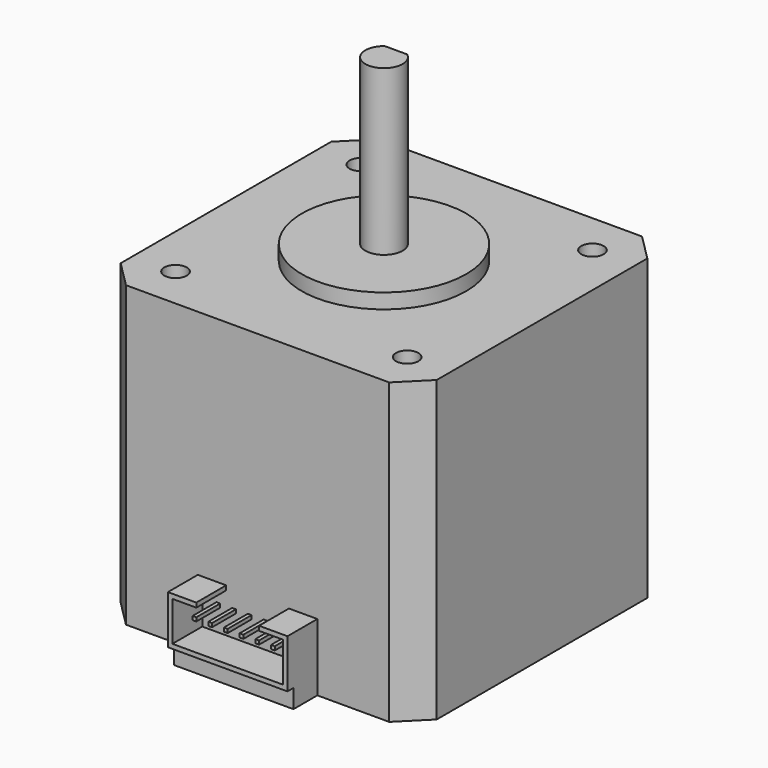
from build123d import *

# Parameters (mm, degrees)
PAD009_DEPTH   = 40
SKETCH017_R    = 1.5
HOLE002_DEPTH  = 4.5
HOLE002_TIPS_R = 1.5
SKETCH018_R    = 1.5
HOLE003_DEPTH  = 4.5
HOLE003_TIPS_R = 1.5
SKETCH019_R    = 11
PAD010_DEPTH   = 2
PAD011_DEPTH   = 22
SKETCH021_R    = 2.5
PAD012_DEPTH   = 3
SKETCH022_W    = 16
SKETCH022_H    = 4
PAD013_DEPTH   = 2.5
PAD014_DEPTH   = 5
SKETCH024_W    = 0.5
SKETCH024_H    = 0.5
PAD015_DEPTH   = 4


with BuildPart() as part:
    # Sketch016 → Pad009 (new body)
    with BuildSketch(Plane.XY):
        Polygon((-17.614466, 21.15), (17.614466, 21.15), (21.15, 17.614466), (21.15, -17.614466), (17.614466, -21.15), (-17.614466, -21.15), (-21.15, -17.614466), (-21.15, 17.614466), align=None)
    extrude(amount=PAD009_DEPTH)

    # Sketch017 (on Face10 of Pad009) → Hole002 (cut)
    with BuildSketch(Plane.XY.offset(40)):
        with Locations((15.5, 15.5)):
            Circle(SKETCH017_R)
        with Locations((-15.5, 15.5)):
            Circle(SKETCH017_R)
        with Locations((-15.5, -15.5)):
            Circle(SKETCH017_R)
        with Locations((15.5, -15.5)):
            Circle(SKETCH017_R)
    extrude(amount=-HOLE002_DEPTH, mode=Mode.SUBTRACT)

    # Hole002 tips → Hole002 tip 1 section 0
    with BuildSketch(Plane.XY.offset(35.5), mode=Mode.PRIVATE) as hole002_tip_1_s0:
        with Locations((15.5, 15.5)):
            Circle(HOLE002_TIPS_R)
    loft([hole002_tip_1_s0.sketch, Vertex(15.5, 15.5, 34.598709)], mode=Mode.SUBTRACT)

    # Hole002 tips → Hole002 tip 2 section 0
    with BuildSketch(Plane.XY.offset(35.5), mode=Mode.PRIVATE) as hole002_tip_2_s0:
        with Locations((-15.5, 15.5)):
            Circle(HOLE002_TIPS_R)
    loft([hole002_tip_2_s0.sketch, Vertex(-15.5, 15.5, 34.598709)], mode=Mode.SUBTRACT)

    # Hole002 tips → Hole002 tip 3 section 0
    with BuildSketch(Plane.XY.offset(35.5), mode=Mode.PRIVATE) as hole002_tip_3_s0:
        with Locations((-15.5, -15.5)):
            Circle(HOLE002_TIPS_R)
    loft([hole002_tip_3_s0.sketch, Vertex(-15.5, -15.5, 34.598709)], mode=Mode.SUBTRACT)

    # Hole002 tips → Hole002 tip 4 section 0
    with BuildSketch(Plane.XY.offset(35.5), mode=Mode.PRIVATE) as hole002_tip_4_s0:
        with Locations((15.5, -15.5)):
            Circle(HOLE002_TIPS_R)
    loft([hole002_tip_4_s0.sketch, Vertex(15.5, -15.5, 34.598709)], mode=Mode.SUBTRACT)

    # Sketch018 → Hole003 (cut)
    with BuildSketch(Plane.XY):
        with Locations((-15.5, 15.5)):
            Circle(SKETCH018_R)
        with Locations((-15.5, -15.5)):
            Circle(SKETCH018_R)
        with Locations((15.5, -15.5)):
            Circle(SKETCH018_R)
        with Locations((15.5, 15.5)):
            Circle(SKETCH018_R)
    extrude(amount=HOLE003_DEPTH, mode=Mode.SUBTRACT)

    # Hole003 tips → Hole003 tip 1 section 0
    with BuildSketch(Plane.XY.offset(4.5), mode=Mode.PRIVATE) as hole003_tip_1_s0:
        with Locations((-15.5, 15.5)):
            Circle(HOLE003_TIPS_R)
    loft([hole003_tip_1_s0.sketch, Vertex(-15.5, 15.5, 5.401291)], mode=Mode.SUBTRACT)

    # Hole003 tips → Hole003 tip 2 section 0
    with BuildSketch(Plane.XY.offset(4.5), mode=Mode.PRIVATE) as hole003_tip_2_s0:
        with Locations((-15.5, -15.5)):
            Circle(HOLE003_TIPS_R)
    loft([hole003_tip_2_s0.sketch, Vertex(-15.5, -15.5, 5.401291)], mode=Mode.SUBTRACT)

    # Hole003 tips → Hole003 tip 3 section 0
    with BuildSketch(Plane.XY.offset(4.5), mode=Mode.PRIVATE) as hole003_tip_3_s0:
        with Locations((15.5, -15.5)):
            Circle(HOLE003_TIPS_R)
    loft([hole003_tip_3_s0.sketch, Vertex(15.5, -15.5, 5.401291)], mode=Mode.SUBTRACT)

    # Hole003 tips → Hole003 tip 4 section 0
    with BuildSketch(Plane.XY.offset(4.5), mode=Mode.PRIVATE) as hole003_tip_4_s0:
        with Locations((15.5, 15.5)):
            Circle(HOLE003_TIPS_R)
    loft([hole003_tip_4_s0.sketch, Vertex(15.5, 15.5, 5.401291)], mode=Mode.SUBTRACT)

    # Sketch019 (on Face5 of Hole003) → Pad010 (join)
    with BuildSketch(Plane.XY.offset(40)):
        Circle(SKETCH019_R)
    extrude(amount=PAD010_DEPTH)

    # Sketch020 (on Face27 of Pad010) → Pad011 (join)
    with BuildSketch(Plane.XY.offset(42)):
        with BuildLine():
            ThreePointArc((-1.5, 2), (0, -2.5), (1.5, 2))
            Line((-1.5, 2), (1.5, 2))
        make_face()
    extrude(amount=PAD011_DEPTH)

    # Sketch021 (on Face27 of Pad010) → Pad012 (join)
    with BuildSketch(Plane.XY.offset(42)):
        Circle(SKETCH021_R)
    extrude(amount=PAD012_DEPTH)

    # Sketch022 (on Face4 of Pad012) → Pad013 (join)
    with BuildSketch(Plane(origin=(0, 0, 0), x_dir=(1, 0, 0), z_dir=(0, 0, -1))):
        with Locations((0, 23.15)):
            Rectangle(SKETCH022_W, SKETCH022_H)
    extrude(amount=-PAD013_DEPTH)

    # Sketch023 (on Face10 of Pad013) → Pad014 (join)
    with BuildSketch(Plane.XZ.offset(21.15)):
        Polygon((-4.2, 9), (-8, 9), (-8, 2.5), (8, 2.5), (8, 9), (4.2, 9), (4.2, 8.4), (7.4, 8.4), (7.4, 3.1), (-7.4, 3.1), (-7.4, 8.4), (-4.2, 8.4), align=None)
    extrude(amount=PAD014_DEPTH)

    # Sketch024 (on Face10 of Pad014) → Pad015 (join)
    with BuildSketch(Plane.XZ.offset(21.15)):
        with Locations((-5.25, 6.35)):
            Rectangle(SKETCH024_W, SKETCH024_H)
        with Locations((-3.15, 6.35)):
            Rectangle(SKETCH024_W, SKETCH024_H)
        with Locations((-1.05, 6.35)):
            Rectangle(SKETCH024_W, SKETCH024_H)
        with Locations((1.05, 6.35)):
            Rectangle(SKETCH024_W, SKETCH024_H)
        with Locations((3.15, 6.35)):
            Rectangle(SKETCH024_W, SKETCH024_H)
        with Locations((5.25, 6.35)):
            Rectangle(SKETCH024_W, SKETCH024_H)
    extrude(amount=PAD015_DEPTH)


solid = part.part
